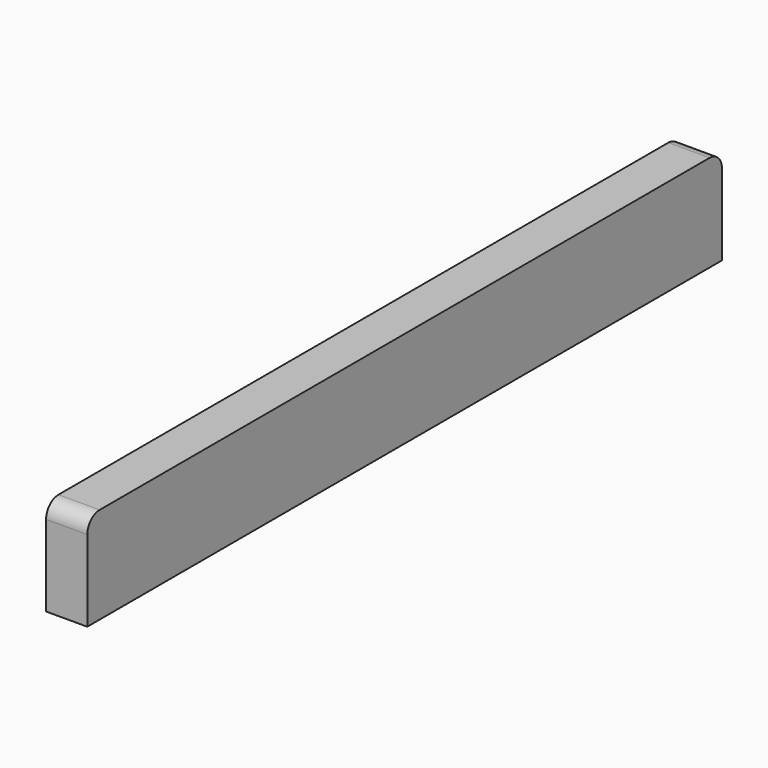
from build123d import *

# Parameters (mm, degrees)
PAD001_DEPTH            = 32
SKETCH002_R             = 1.5
POCKET_DEPTH            = 24
SKETCH013_R             = 4
POCKET005_DEPTH         = 10
SKETCH015_R             = 4
POCKET007_DEPTH         = 12
LINEARPATTERN002_COUNT  = 5
LINEARPATTERN002_PITCH  = 138
BODY001_ROLL_ANGLE      = 90
BODY001_PLACEMENT_ANGLE = -90


with BuildPart() as part:
    # Sketch001 → Pad001 (new body)
    with BuildSketch(Plane.XY):
        with BuildLine():
            Line((-296, 75), (296, 75))
            ThreePointArc((308, 63), (304.485281, 71.485281), (296, 75))
            Line((308, 63), (308, 0))
            Line((308, 0), (-308, 0))
            Line((-308, 0), (-308, 63))
            ThreePointArc((-296, 75), (-304.485281, 71.485281), (-308, 63))
        make_face()
    extrude(amount=PAD001_DEPTH)

    # Sketch002 (on Face8 of Pad001) → Pocket (cut)
    with BuildSketch(Plane.XY.offset(32)):
        with Locations((264.5, 12)):
            Circle(SKETCH002_R)
    pocket = extrude(amount=-POCKET_DEPTH, mode=Mode.SUBTRACT)

    # Mirrored: Pocket across Sketch002 V_Axis
    add(pocket.mirror(Plane(origin=(0, 0, 32), x_dir=(0, 0, 1), z_dir=(1, 0, 0))), mode=Mode.SUBTRACT)

    # Sketch013 (on Face5 of Mirrored) → Pocket005 (cut)
    with BuildSketch(Plane.XY.offset(32)):
        with Locations((-284, 63.75)):
            Circle(SKETCH013_R)
        with Locations((284, 63.75)):
            Circle(SKETCH013_R)
        with Locations((-102.666667, 25)):
            Circle(SKETCH013_R)
        with Locations((0, 25)):
            Circle(SKETCH013_R)
        with Locations((102.666667, 25)):
            Circle(SKETCH013_R)
    extrude(amount=-POCKET005_DEPTH, mode=Mode.SUBTRACT)

    # Sketch015 (on Face3 of Pocket005) → Pocket007 (cut)
    with BuildSketch(Plane.XZ):
        with Locations((276, 16)):
            Circle(SKETCH015_R)
    pocket007 = extrude(amount=-POCKET007_DEPTH, mode=Mode.SUBTRACT)

    # LinearPattern002: Pocket007 ×5
    with Locations(*[(-i * LINEARPATTERN002_PITCH, 0, 0) for i in range(1, LINEARPATTERN002_COUNT)]):
        add(pocket007, mode=Mode.SUBTRACT)


with BuildPart() as part_1:
    # Body001 roll: moved
    add(part.part.rotate(Axis((0, 0, 0), (1, 0, 0)), BODY001_ROLL_ANGLE))


with BuildPart() as part_2:
    # Body001 placement: moved
    add(part_1.part.moved(Location((-178, 308, 18))).rotate(Axis((-178, 308, 18), (0, 0, 1)), BODY001_PLACEMENT_ANGLE))


solid = part_2.part
